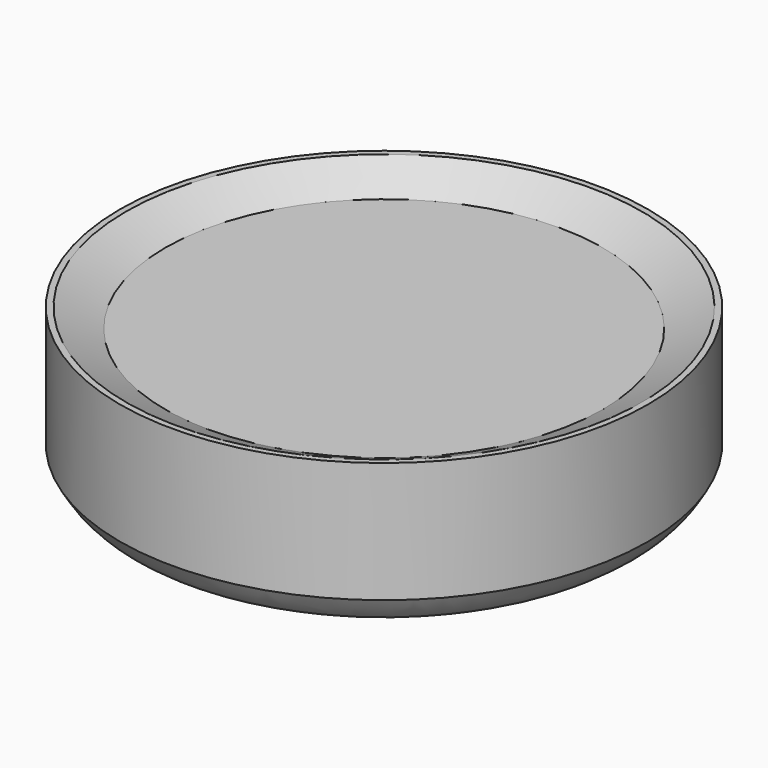
from build123d import *


with BuildPart() as f1:
    # F0 (on Front) → F1 (revolve)
    with BuildSketch(Plane.XZ):
        with BuildLine():
            Line((0, -200), (0, 0))
            Line((0, 0), (-290, 0))
            Line((-290, 0), (-342, 25.3465301704))
            Line((-342, 25.3465301704), (-350, 25.3465301704))
            Line((-350, 25.3465301704), (-350, -134.6534698296))
            add(Edge.make_bspline(
                [(-350, -134.6534698296), (-335.8655394779, -160.9061600106), (-312.9382705756, -175.5732905576), (-263.2742372213, -195.5910633241), (-194.4962173717, -200), (-175.4222661257, -200)],
                knots=[0, 0, 0, 0, 0.3130408604, 0.6148695485, 1, 1, 1, 1], degree=3))
            Line((-175.4222661257, -200), (0, -200))
        make_face()
    revolve(axis=Axis((0, 0, -100), (0, 0, 1)))


solid = f1.part
